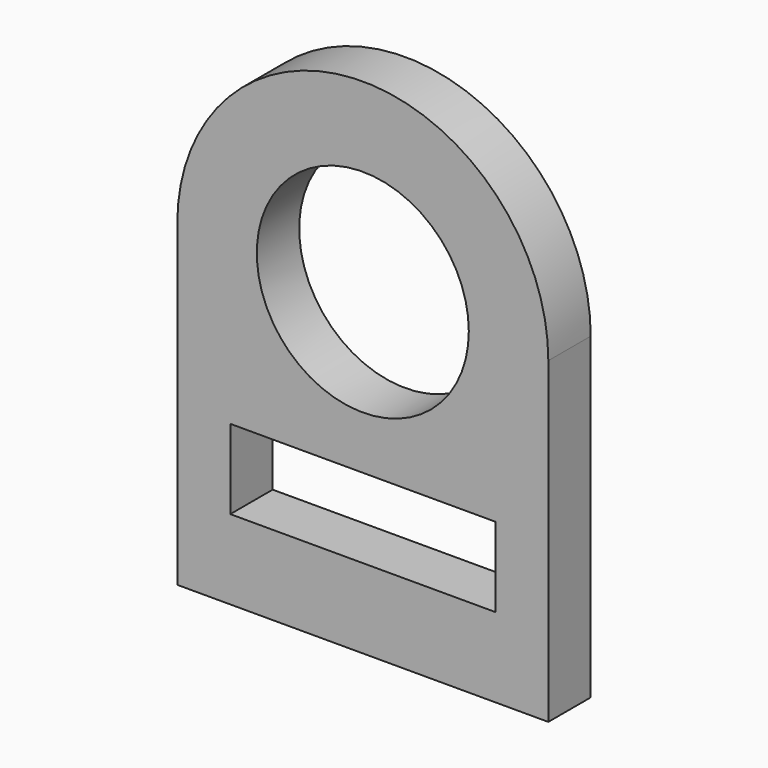
from build123d import *

# Parameters (mm, degrees)
F0_W     = 1270
F0_H     = 381
F0_R     = 508
F1_DEPTH = 254


with BuildPart() as f1:
    # F0 (on Front) → F1 (new body)
    with BuildSketch(Plane.XZ):
        with BuildLine():
            Line((0, 1524), (0, 0))
            Line((0, 0), (1778, 0))
            Line((1778, 0), (1778, 1524))
            ThreePointArc((1778, 1524), (889, 2413), (0, 1524))
        make_face()
        with Locations((889, 571.5)):
            Rectangle(F0_W, F0_H, mode=Mode.SUBTRACT)
        with Locations((889, 1524)):
            Circle(F0_R, mode=Mode.SUBTRACT)
        with BuildLine():
            Line((0, 1524), (0, 0))
            Line((0, 0), (1778, 0))
            Line((1778, 0), (1778, 1524))
            ThreePointArc((1778, 1524), (889, 2413), (0, 1524))
        make_face()
        with Locations((889, 571.5)):
            Rectangle(F0_W, F0_H, mode=Mode.SUBTRACT)
        with Locations((889, 1524)):
            Circle(F0_R, mode=Mode.SUBTRACT)
    extrude(amount=F1_DEPTH)


solid = f1.part
